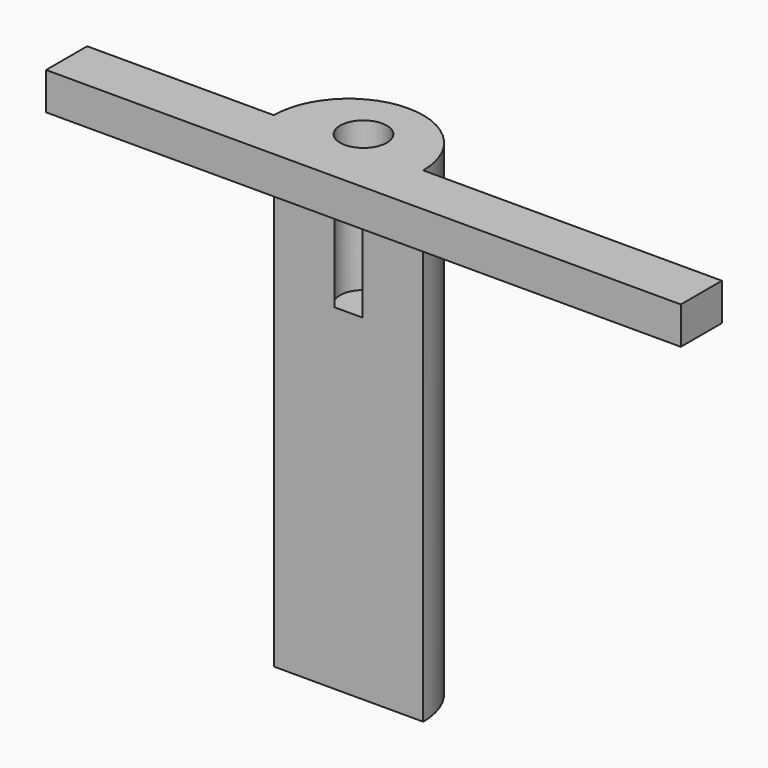
from build123d import *

# Parameters (mm, degrees)
CYLINDER028_R     = 1.25
CYLINDER028_DEPTH = 10
BOX030_W          = 34
BOX030_H          = 2.75
BOX030_DEPTH      = 2
CYLINDER025_W     = 4
CYLINDER025_H     = 26
CYLINDER025_ANGLE = 180


with BuildPart() as b_no002:
    # Cylinder028 → Cylinder028 (new body)
    with BuildSketch(Plane(origin=(11, 29, 4), x_dir=(1, 0, 0), z_dir=(0, 0, 1))):
        Circle(CYLINDER028_R)
    extrude(amount=CYLINDER028_DEPTH)


with BuildPart() as n016:
    # Box030 → Box030 (new body)
    with BuildSketch(Plane(origin=(-3, 25.25, 10), x_dir=(1, 0, 0), z_dir=(0, 0, 1))):
        with Locations((17, 1.375)):
            Rectangle(BOX030_W, BOX030_H)
    extrude(amount=BOX030_DEPTH)


with BuildPart() as obj1:
    # Cylinder025 → Cylinder025 (revolve)
    with BuildSketch(Plane(origin=(11, 28, -14), x_dir=(1, 0, 0), z_dir=(0, -1, 0))):
        with Locations((2, 13)):
            Rectangle(CYLINDER025_W, CYLINDER025_H)
    revolve(axis=Axis((11, 28, -14), (0, 0, 1)), revolution_arc=CYLINDER025_ANGLE)

    # Fusion005: union N016
    add(n016.part)

    # Cut011: cut B_NO002
    add(b_no002.part, mode=Mode.SUBTRACT)


with BuildPart() as obj1_1:
    # Cut011 placement: moved
    add(obj1.part.moved(Location((13, 15, 0))))


solid = obj1_1.part
